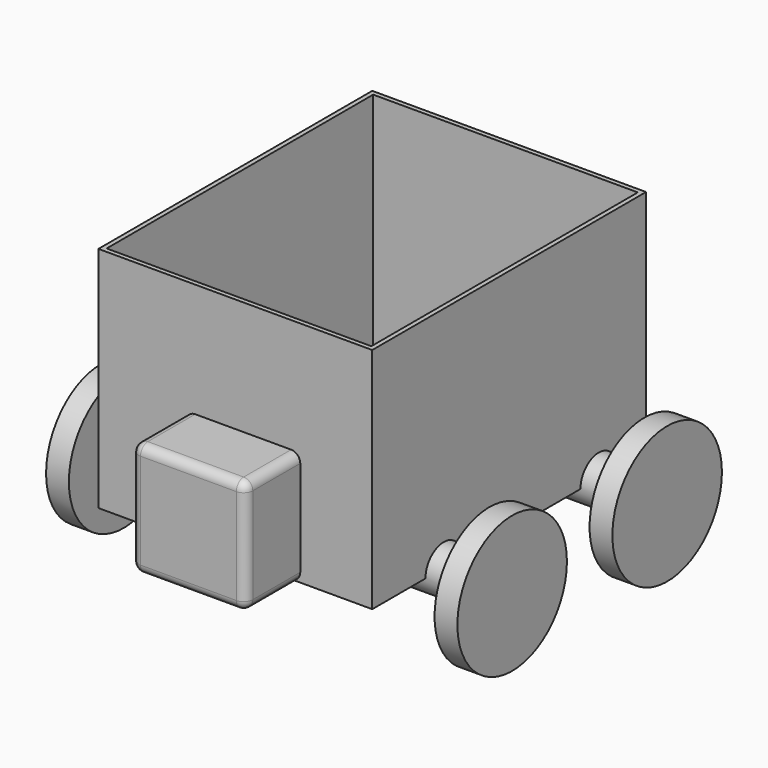
from build123d import *

# Parameters (mm, degrees)
F0_W      = 152.4
F0_H      = 190.5
F1_DEPTH  = 127
F2_T      = -2.54
F3_W      = 63.5
F3_H      = 63.5
F4_DEPTH  = 38.1
F5_R      = 5.08
F7_DEPTH  = 177.8
F8_R      = 38.1
F9_DEPTH  = 12.7
F11_DEPTH = 25.4
F12_R     = 38.1
F12_R_2   = 12.7
F13_DEPTH = 12.7


with BuildPart() as f1:
    # F0 (on Top) → F1 (new body)
    with BuildSketch(Plane.XY):
        with Locations((-1.2951251119, 11.9785609818)):
            Rectangle(F0_W, F0_H)
    extrude(amount=F1_DEPTH)

    # F2
    f2_openings = [f1.faces().sort_by_distance(p)[0] for p in [
        (-1.295125, 11.978561, 127),
    ]]
    offset(amount=F2_T, openings=f2_openings)

    # F3 (on face) → F4 (join)
    with BuildSketch(Plane.XZ.offset(83.2714390182)):
        with Locations((3.0893431157, 31.75)):
            Rectangle(F3_W, F3_H)
    extrude(amount=F4_DEPTH)

    # F5
    f5_edges = [f1.edges().sort_by_distance(p)[0] for p in [
        (-28.660657, -121.371439, 31.75),
        (34.839343, -121.371439, 31.75),
        (3.089343, -121.371439, 63.5),
        (34.839343, -102.321439, 63.5),
        (-28.660657, -102.321439, 63.5),
        (3.089343, -121.371439, 0),
        (-28.660657, -102.321439, 0),
        (34.839343, -102.321439, 0),
    ]]
    fillet(f5_edges, radius=F5_R)

    # F6 (on face) → F7 (join)
    with BuildSketch(Plane(origin=(-77.4951251119, 0, 0), x_dir=(0, -1, 0), z_dir=(-1, 0, 0))):
        with BuildLine():
            ThreePointArc((20.8495695472, 0), (33.5495695472, -12.7), (46.2495695472, 0))
            Line((46.2495695472, 0), (20.8495695472, 0))
        make_face()
        with BuildLine():
            Line((-86.981655252, 0), (-61.581655252, 0))
            ThreePointArc((-61.581655252, 0), (-74.281655252, 12.7), (-86.981655252, 0))
        make_face()
        with BuildLine():
            Line((20.8495695472, 0), (46.2495695472, 0))
            ThreePointArc((46.2495695472, 0), (33.5495695472, 12.7), (20.8495695472, 0))
        make_face()
        with BuildLine():
            ThreePointArc((-86.981655252, 0), (-74.281655252, -12.7), (-61.581655252, 0))
            Line((-61.581655252, 0), (-86.981655252, 0))
        make_face()
    extrude(amount=-F7_DEPTH)

    # F8 (on face) → F9 (join)
    with BuildSketch(Plane.YZ.offset(100.3048748881)):
        with Locations((-33.5495695472, 0)):
            Circle(F8_R)
        with Locations((74.2916837335, 0)):
            Circle(F8_R)
    extrude(amount=F9_DEPTH)

    # F10 (on face) → F11 (join)
    with BuildSketch(Plane(origin=(-77.4951251119, 0, 0), x_dir=(0, -1, 0), z_dir=(-1, 0, 0))):
        with BuildLine():
            ThreePointArc((46.2495695472, 0), (33.5495695472, 12.7), (20.8495695472, 0))
            ThreePointArc((20.8495695472, 0), (33.5495695472, -12.7), (46.2495695472, 0))
        make_face()
        with BuildLine():
            ThreePointArc((-86.981655252, 0), (-74.281655252, -12.7), (-61.581655252, 0))
            ThreePointArc((-61.581655252, 0), (-74.281655252, 12.7), (-86.981655252, 0))
        make_face()
    extrude(amount=F11_DEPTH)

    # F12 (on face) → F13 (join)
    with BuildSketch(Plane(origin=(-102.8951251119, 0, 0), x_dir=(0, -1, 0), z_dir=(-1, 0, 0))):
        with Locations((-74.281655252, 0)):
            Circle(F12_R)
        with Locations((-74.281655252, 0)):
            Circle(F12_R_2, mode=Mode.SUBTRACT)
        with Locations((33.9739844203, 0)):
            Circle(F12_R)
        with Locations((-74.281655252, 0)):
            Circle(F12_R_2)
    extrude(amount=F13_DEPTH)


solid = f1.part
